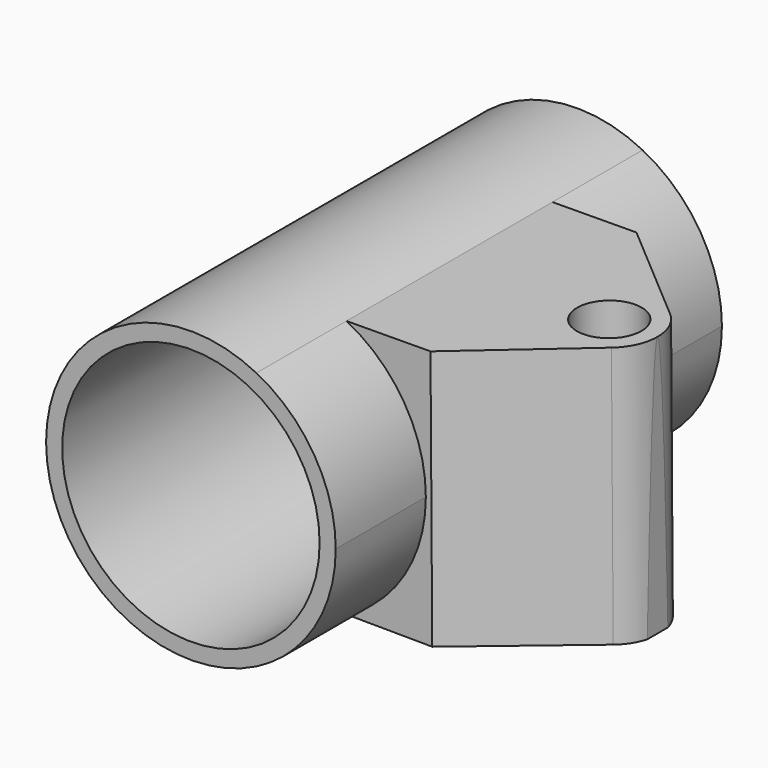
from build123d import *

# Parameters (mm, degrees)
F1_DEPTH = 37.5
F2_DEPTH = 20
F4_DEPTH = 70
F3_R     = 5
F5_DEPTH = 30
F6_R     = 20
F7_DEPTH = 100


with BuildPart() as f1:
    # F0 (on Front) → F1 (new body, symmetric)
    with BuildSketch(Plane.XZ):
        with BuildLine():
            ThreePointArc((10.173274, -20.068744), (19.172228, -11.776064), (22.5, 0))
            ThreePointArc((22.5, 0), (19.172228, 11.776064), (10.173274, 20.068744))
            ThreePointArc((10.173274, 20.068744), (-22.5, 0), (10.173274, -20.068744))
        make_face()
    extrude(amount=F1_DEPTH, both=True)

    # F0 (on Front) → F2 (join, symmetric)
    with BuildSketch(Plane.XZ):
        with BuildLine():
            ThreePointArc((10.173274, 20.068744), (19.172228, 11.776064), (22.5, 0))
            ThreePointArc((22.5, 0), (19.172228, -11.776064), (10.173274, -20.068744))
            Line((10.173274, -20.068744), (42.5, -20.285756))
            Line((42.5, -20.285756), (42.5, 0))
            Line((42.5, 0), (42.5, 20.285756))
            Line((42.5, 20.285756), (10.173274, 20.068744))
        make_face()
    extrude(amount=F2_DEPTH, both=True)

    # F3 (on face) → F4 (cut)
    with BuildSketch(Plane(origin=(-0.134258, 0, 19.999549), x_dir=(0.999977, 0, 0.006713), z_dir=(-0.006713, 0, 0.999977))):
        with BuildLine():
            ThreePointArc((40.021521, 5.68982), (41.950542, 3.130714), (42.635219, 0))
            Line((42.635219, 0), (42.635219, 20))
            Line((42.635219, 20), (23.358133, 20))
            Line((23.358133, 20), (40.021521, 5.68982))
        make_face()
        with BuildLine():
            Line((42.635219, -20), (42.635219, 0))
            ThreePointArc((42.635219, 0), (41.950542, -3.130714), (40.021521, -5.68982))
            Line((40.021521, -5.68982), (23.358133, -20))
            Line((23.358133, -20), (42.635219, -20))
        make_face()
    extrude(amount=-F4_DEPTH, mode=Mode.SUBTRACT)

    # F3 (on face) → F5 (cut)
    with BuildSketch(Plane(origin=(-0.134258, 0, 19.999549), x_dir=(0.999977, 0, 0.006713), z_dir=(-0.006713, 0, 0.999977))):
        with Locations((35.135219, 0)):
            Circle(F3_R)
    extrude(amount=-F5_DEPTH, mode=Mode.SUBTRACT)

    # F6 (on face) → F7 (cut)
    with BuildSketch(Plane.XZ.offset(37.5)):
        Circle(F6_R)
    extrude(amount=-F7_DEPTH, mode=Mode.SUBTRACT)


solid = f1.part
